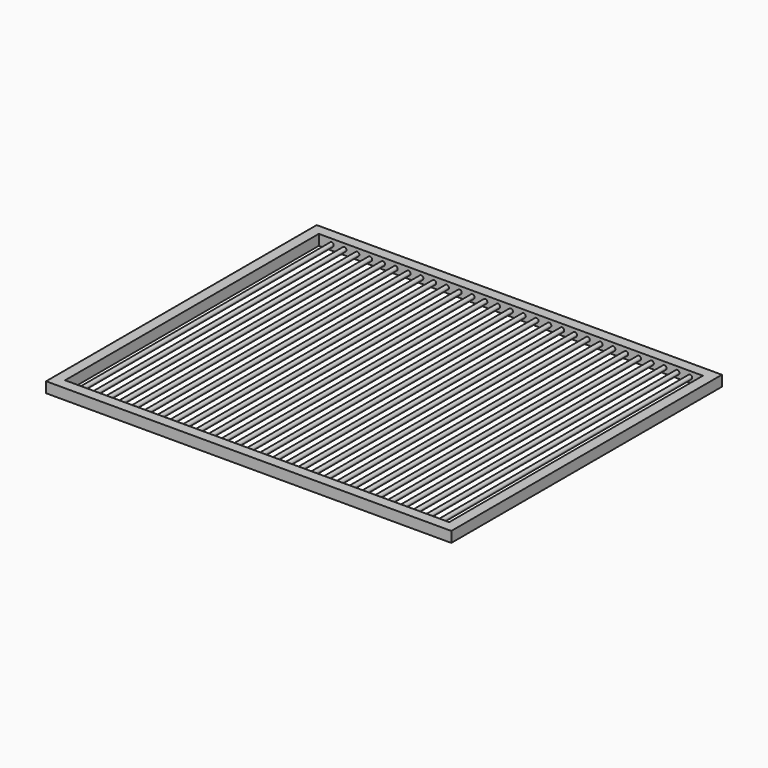
from build123d import *

# Parameters (mm, degrees)
F1_W     = 15
F1_H     = 15
F3_R     = 3
F4_DEPTH = 450


with BuildPart() as f2:
    # F2: sweep along a path in F0
    with BuildLine(Plane.XY) as f2_path:
        Line((0, 0), (560, 0))
        Line((560, 0), (560, 465))
        Line((560, 465), (0, 465))
        Line((0, 465), (0, 0))
    # F1 (on Right) → F2 (sweep)
    with BuildSketch(Plane.YZ):
        Rectangle(F1_W, F1_H)
    sweep(path=f2_path.line, transition=Transition.RIGHT)

    # F3 (on face) → F4 (join)
    with BuildSketch(Plane.XZ.offset(-457.5)):
        with Locations((25.66667, 0)):
            Circle(F3_R)
        with Locations((43.83334, 0)):
            Circle(F3_R)
        with Locations((62.00001, 0)):
            Circle(F3_R)
        with Locations((80.16668, 0)):
            Circle(F3_R)
        with Locations((98.33335, 0)):
            Circle(F3_R)
        with Locations((116.50002, 0)):
            Circle(F3_R)
        with Locations((134.66669, 0)):
            Circle(F3_R)
        with Locations((152.83336, 0)):
            Circle(F3_R)
        with Locations((171.00003, 0)):
            Circle(F3_R)
        with Locations((189.1667, 0)):
            Circle(F3_R)
        with Locations((207.33337, 0)):
            Circle(F3_R)
        with Locations((225.50004, 0)):
            Circle(F3_R)
        with Locations((243.66671, 0)):
            Circle(F3_R)
        with Locations((261.83338, 0)):
            Circle(F3_R)
        with Locations((280.00005, 0)):
            Circle(F3_R)
        with Locations((298.16672, 0)):
            Circle(F3_R)
        with Locations((316.33339, 0)):
            Circle(F3_R)
        with Locations((334.50006, 0)):
            Circle(F3_R)
        with Locations((352.66673, 0)):
            Circle(F3_R)
        with Locations((370.8334, 0)):
            Circle(F3_R)
        with Locations((389.00007, 0)):
            Circle(F3_R)
        with Locations((407.16674, 0)):
            Circle(F3_R)
        with Locations((425.33341, 0)):
            Circle(F3_R)
        with Locations((443.50008, 0)):
            Circle(F3_R)
        with Locations((461.66675, 0)):
            Circle(F3_R)
        with Locations((479.83342, 0)):
            Circle(F3_R)
        with Locations((498.00009, 0)):
            Circle(F3_R)
        with Locations((516.16676, 0)):
            Circle(F3_R)
        with Locations((534.33343, 0)):
            Circle(F3_R)
    extrude(amount=F4_DEPTH)


solid = f2.part
